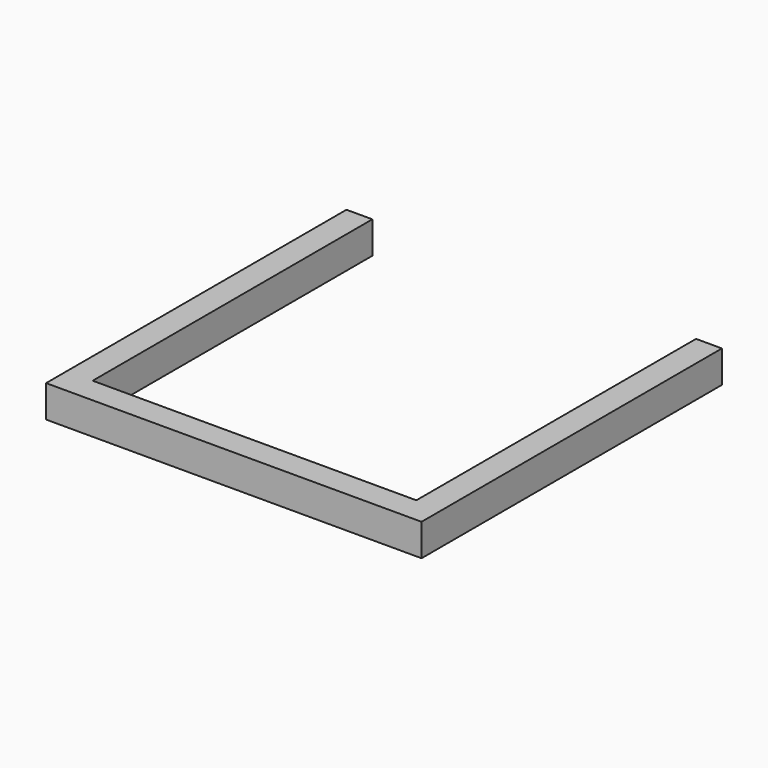
from build123d import *

# Parameters (mm, degrees)
F0_W     = 36.83
F0_H     = 36.83
F1_DEPTH = 3.1496
F2_W     = 31.75
F2_H     = 31.75
F3_DEPTH = 25.4
F4_W     = 31.75
F4_H     = 2.54
F5_DEPTH = 25.4


with BuildPart() as f1:
    # F0 (on Top) → F1 (new body)
    with BuildSketch(Plane.XY):
        Rectangle(F0_W, F0_H)
    extrude(amount=F1_DEPTH)

    # F2 (on face) → F3 (cut)
    with BuildSketch(Plane.XY.offset(3.1496)):
        Rectangle(F2_W, F2_H)
    extrude(amount=-F3_DEPTH, mode=Mode.SUBTRACT)

    # F4 (on face) → F5 (cut)
    with BuildSketch(Plane.XY.offset(3.1496)):
        with Locations((0, 17.145)):
            Rectangle(F4_W, F4_H)
    extrude(amount=-F5_DEPTH, mode=Mode.SUBTRACT)


solid = f1.part
